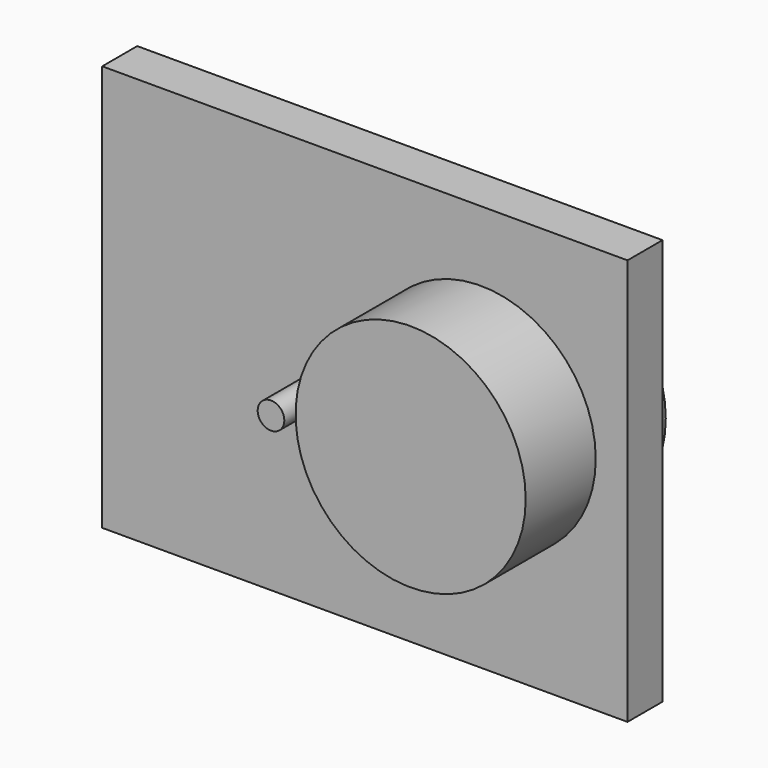
from build123d import *

# Parameters (mm, degrees)
F0_W     = 300
F0_H     = 232.072148
F1_DEPTH = 25
F2_R     = 7.605799
F3_DEPTH = 50
F4_R     = 65.713133
F5_DEPTH = 50


with BuildPart() as f1:
    # F0 (on Front) → F1 (new body)
    with BuildSketch(Plane.XZ):
        with Locations((-9.545375, -11.807603)):
            Rectangle(F0_W, F0_H)
    extrude(amount=F1_DEPTH)

    # F2 (on face) → F3 (join, symmetric)
    with BuildSketch(Plane.XZ.offset(25)):
        with Locations((-23.156079, -6.691449)):
            Circle(F2_R)
    extrude(amount=F3_DEPTH, both=True)

    # F4 (on face) → F5 (join, symmetric)
    with BuildSketch(Plane.XZ.offset(25)):
        with Locations((56.600176, -1.484662)):
            Circle(F4_R)
    extrude(amount=F5_DEPTH, both=True)


solid = f1.part
